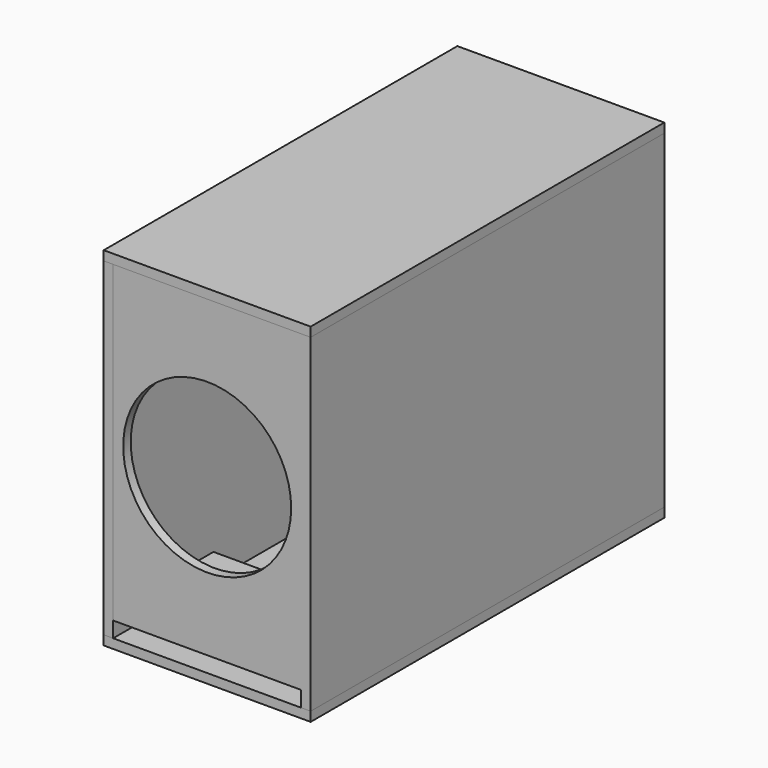
from build123d import *

# Parameters (mm, degrees)
F0_W      = 381
F0_H      = 635
F1_DEPTH  = 9.525
F2_R      = 170.1235720866
F3_DEPTH  = 19.05
F4_W      = 381
F4_H      = 19.05
F5_DEPTH  = 234.95
F7_DEPTH  = 19.05
F8_W      = 895.35
F8_H      = 666.75
F9_DEPTH  = 19.05
F10_W     = 419.1
F10_H     = 895.35
F11_DEPTH = 19.05
F12_W     = 419.1
F12_H     = 895.35
F13_DEPTH = 19.05
F14_W     = 381
F14_H     = 666.75
F15_DEPTH = 19.05


with BuildPart() as f1:
    # F0 (on Front) → F1 (new body, symmetric)
    with BuildSketch(Plane.XZ):
        Rectangle(F0_W, F0_H)
    extrude(amount=F1_DEPTH, both=True)

    # F2 (on face) → F3 (cut)
    with BuildSketch(Plane.XZ.offset(9.525)):
        Circle(F2_R)
    extrude(amount=-F3_DEPTH, mode=Mode.SUBTRACT)

    # F4 (on face) → F5 (join)
    with BuildSketch(Plane(origin=(0, 9.525, 0), x_dir=(-1, 0, 0), z_dir=(0, 1, 0))):
        with Locations((0, -307.975)):
            Rectangle(F4_W, F4_H)
    extrude(amount=F5_DEPTH)

    # F8 (on face) → F9 (join)
    with BuildSketch(Plane.YZ.offset(190.5)):
        with Locations((438.15, -15.875)):
            Rectangle(F8_W, F8_H)
    extrude(amount=F9_DEPTH)


with BuildPart() as f7:
    # F6 (on face) → F7 (new body)
    with BuildSketch(Plane(origin=(-190.5, 0, 0), x_dir=(0, -1, 0), z_dir=(-1, 0, 0))):
        Polygon((9.525, -317.5), (9.525, 317.5), (-9.525, 317.5), (-9.525, -298.45), (-244.475, -298.45), (-244.475, -317.5), align=None)
        Polygon((-9.525, -298.45), (-9.525, 317.5), (-885.825, 317.5), (-885.825, -349.25), (9.525, -349.25), (9.525, -317.5), (-244.475, -317.5), (-244.475, -298.45), align=None)
    extrude(amount=F7_DEPTH)


with BuildPart() as f11:
    # F10 (on face) → F11 (new body)
    with BuildSketch(Plane(origin=(0, 0, -349.25), x_dir=(1, 0, 0), z_dir=(0, 0, -1))):
        with Locations((0, -438.15)):
            Rectangle(F10_W, F10_H)
    extrude(amount=F11_DEPTH)


with BuildPart() as f13:
    # F12 (on face) → F13 (new body)
    with BuildSketch(Plane.XY.offset(317.5)):
        with Locations((0, 438.15)):
            Rectangle(F12_W, F12_H)
    extrude(amount=F13_DEPTH)


with BuildPart() as f15:
    # F14 (on face) → F15 (new body)
    with BuildSketch(Plane(origin=(0, 885.825, 0), x_dir=(-1, 0, 0), z_dir=(0, 1, 0))):
        with Locations((0, -15.875)):
            Rectangle(F14_W, F14_H)
    extrude(amount=-F15_DEPTH)


solid = Compound([f1.part, f7.part, f11.part, f13.part, f15.part])
